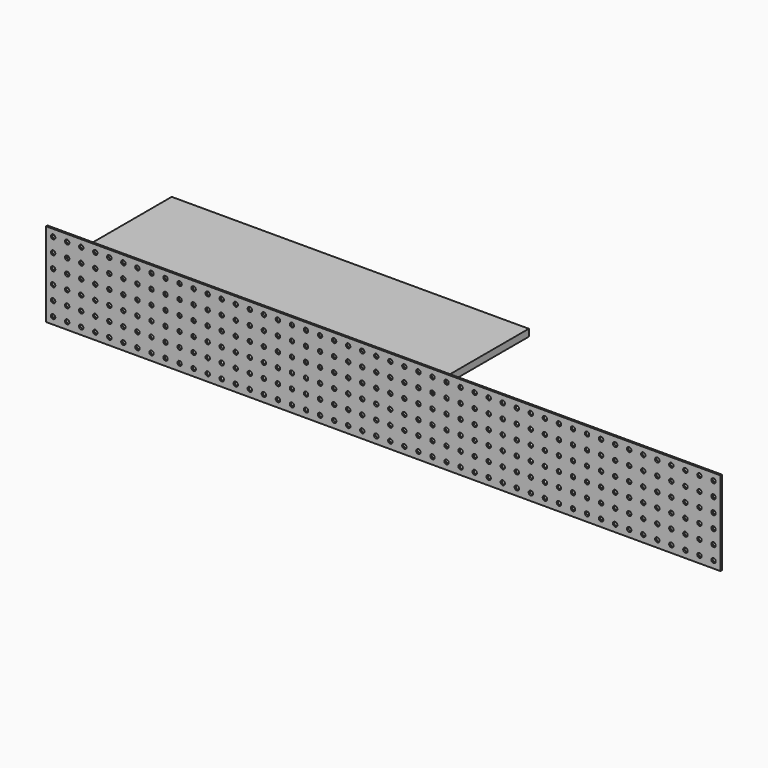
from build123d import *

# Parameters (mm, degrees)
F0_W     = 2438.4
F0_H     = 304.8
F0_R     = 8.001
F1_DEPTH = 3.175
F2_W     = 1290.985934
F2_H     = 527.761567
F3_DEPTH = 25.4


with BuildPart() as f1:
    # F0 (on Front) → F1 (new body, symmetric)
    with BuildSketch(Plane.XZ):
        Rectangle(F0_W, F0_H)
        with Locations((-1193.8, -127)):
            Circle(F0_R, mode=Mode.SUBTRACT)
        with Locations((-1143, -127)):
            Circle(F0_R, mode=Mode.SUBTRACT)
        with Locations((-1092.2, -127)):
            Circle(F0_R, mode=Mode.SUBTRACT)
        with Locations((-1041.4, -127)):
            Circle(F0_R, mode=Mode.SUBTRACT)
        with Locations((-990.6, -127)):
            Circle(F0_R, mode=Mode.SUBTRACT)
        with Locations((-939.8, -127)):
            Circle(F0_R, mode=Mode.SUBTRACT)
        with Locations((-889, -127)):
            Circle(F0_R, mode=Mode.SUBTRACT)
        with Locations((-838.2, -127)):
            Circle(F0_R, mode=Mode.SUBTRACT)
        with Locations((-787.4, -127)):
            Circle(F0_R, mode=Mode.SUBTRACT)
        with Locations((-736.6, -127)):
            Circle(F0_R, mode=Mode.SUBTRACT)
        with Locations((-685.8, -127)):
            Circle(F0_R, mode=Mode.SUBTRACT)
        with Locations((-635, -127)):
            Circle(F0_R, mode=Mode.SUBTRACT)
        with Locations((-584.2, -127)):
            Circle(F0_R, mode=Mode.SUBTRACT)
        with Locations((-533.4, -127)):
            Circle(F0_R, mode=Mode.SUBTRACT)
        with Locations((-482.6, -127)):
            Circle(F0_R, mode=Mode.SUBTRACT)
        with Locations((-431.8, -127)):
            Circle(F0_R, mode=Mode.SUBTRACT)
        with Locations((-381, -127)):
            Circle(F0_R, mode=Mode.SUBTRACT)
        with Locations((-330.2, -127)):
            Circle(F0_R, mode=Mode.SUBTRACT)
        with Locations((-279.4, -127)):
            Circle(F0_R, mode=Mode.SUBTRACT)
        with Locations((-228.6, -127)):
            Circle(F0_R, mode=Mode.SUBTRACT)
        with Locations((-177.8, -127)):
            Circle(F0_R, mode=Mode.SUBTRACT)
        with Locations((-127, -127)):
            Circle(F0_R, mode=Mode.SUBTRACT)
        with Locations((-76.2, -127)):
            Circle(F0_R, mode=Mode.SUBTRACT)
        with Locations((-25.4, -127)):
            Circle(F0_R, mode=Mode.SUBTRACT)
        with Locations((-1193.8, -76.2)):
            Circle(F0_R, mode=Mode.SUBTRACT)
        with Locations((-1143, -76.2)):
            Circle(F0_R, mode=Mode.SUBTRACT)
        with Locations((-1092.2, -76.2)):
            Circle(F0_R, mode=Mode.SUBTRACT)
        with Locations((-1041.4, -76.2)):
            Circle(F0_R, mode=Mode.SUBTRACT)
        with Locations((-990.6, -76.2)):
            Circle(F0_R, mode=Mode.SUBTRACT)
        with Locations((-939.8, -76.2)):
            Circle(F0_R, mode=Mode.SUBTRACT)
        with Locations((-889, -76.2)):
            Circle(F0_R, mode=Mode.SUBTRACT)
        with Locations((-838.2, -76.2)):
            Circle(F0_R, mode=Mode.SUBTRACT)
        with Locations((-787.4, -76.2)):
            Circle(F0_R, mode=Mode.SUBTRACT)
        with Locations((-736.6, -76.2)):
            Circle(F0_R, mode=Mode.SUBTRACT)
        with Locations((-685.8, -76.2)):
            Circle(F0_R, mode=Mode.SUBTRACT)
        with Locations((-635, -76.2)):
            Circle(F0_R, mode=Mode.SUBTRACT)
        with Locations((-1193.8, -25.4)):
            Circle(F0_R, mode=Mode.SUBTRACT)
        with Locations((-1143, -25.4)):
            Circle(F0_R, mode=Mode.SUBTRACT)
        with Locations((-1092.2, -25.4)):
            Circle(F0_R, mode=Mode.SUBTRACT)
        with Locations((-1041.4, -25.4)):
            Circle(F0_R, mode=Mode.SUBTRACT)
        with Locations((-990.6, -25.4)):
            Circle(F0_R, mode=Mode.SUBTRACT)
        with Locations((-939.8, -25.4)):
            Circle(F0_R, mode=Mode.SUBTRACT)
        with Locations((-889, -25.4)):
            Circle(F0_R, mode=Mode.SUBTRACT)
        with Locations((-838.2, -25.4)):
            Circle(F0_R, mode=Mode.SUBTRACT)
        with Locations((-787.4, -25.4)):
            Circle(F0_R, mode=Mode.SUBTRACT)
        with Locations((-736.6, -25.4)):
            Circle(F0_R, mode=Mode.SUBTRACT)
        with Locations((-685.8, -25.4)):
            Circle(F0_R, mode=Mode.SUBTRACT)
        with Locations((-635, -25.4)):
            Circle(F0_R, mode=Mode.SUBTRACT)
        with Locations((-584.2, -76.2)):
            Circle(F0_R, mode=Mode.SUBTRACT)
        with Locations((-533.4, -76.2)):
            Circle(F0_R, mode=Mode.SUBTRACT)
        with Locations((-482.6, -76.2)):
            Circle(F0_R, mode=Mode.SUBTRACT)
        with Locations((-431.8, -76.2)):
            Circle(F0_R, mode=Mode.SUBTRACT)
        with Locations((-381, -76.2)):
            Circle(F0_R, mode=Mode.SUBTRACT)
        with Locations((-330.2, -76.2)):
            Circle(F0_R, mode=Mode.SUBTRACT)
        with Locations((-279.4, -76.2)):
            Circle(F0_R, mode=Mode.SUBTRACT)
        with Locations((-228.6, -76.2)):
            Circle(F0_R, mode=Mode.SUBTRACT)
        with Locations((-177.8, -76.2)):
            Circle(F0_R, mode=Mode.SUBTRACT)
        with Locations((-127, -76.2)):
            Circle(F0_R, mode=Mode.SUBTRACT)
        with Locations((-76.2, -76.2)):
            Circle(F0_R, mode=Mode.SUBTRACT)
        with Locations((-25.4, -76.2)):
            Circle(F0_R, mode=Mode.SUBTRACT)
        with Locations((-584.2, -25.4)):
            Circle(F0_R, mode=Mode.SUBTRACT)
        with Locations((-533.4, -25.4)):
            Circle(F0_R, mode=Mode.SUBTRACT)
        with Locations((-482.6, -25.4)):
            Circle(F0_R, mode=Mode.SUBTRACT)
        with Locations((-431.8, -25.4)):
            Circle(F0_R, mode=Mode.SUBTRACT)
        with Locations((-381, -25.4)):
            Circle(F0_R, mode=Mode.SUBTRACT)
        with Locations((-330.2, -25.4)):
            Circle(F0_R, mode=Mode.SUBTRACT)
        with Locations((-279.4, -25.4)):
            Circle(F0_R, mode=Mode.SUBTRACT)
        with Locations((-228.6, -25.4)):
            Circle(F0_R, mode=Mode.SUBTRACT)
        with Locations((-177.8, -25.4)):
            Circle(F0_R, mode=Mode.SUBTRACT)
        with Locations((-127, -25.4)):
            Circle(F0_R, mode=Mode.SUBTRACT)
        with Locations((-76.2, -25.4)):
            Circle(F0_R, mode=Mode.SUBTRACT)
        with Locations((-25.4, -25.4)):
            Circle(F0_R, mode=Mode.SUBTRACT)
        with Locations((25.4, -127)):
            Circle(F0_R, mode=Mode.SUBTRACT)
        with Locations((76.2, -127)):
            Circle(F0_R, mode=Mode.SUBTRACT)
        with Locations((127, -127)):
            Circle(F0_R, mode=Mode.SUBTRACT)
        with Locations((177.8, -127)):
            Circle(F0_R, mode=Mode.SUBTRACT)
        with Locations((228.6, -127)):
            Circle(F0_R, mode=Mode.SUBTRACT)
        with Locations((279.4, -127)):
            Circle(F0_R, mode=Mode.SUBTRACT)
        with Locations((330.2, -127)):
            Circle(F0_R, mode=Mode.SUBTRACT)
        with Locations((381, -127)):
            Circle(F0_R, mode=Mode.SUBTRACT)
        with Locations((431.8, -127)):
            Circle(F0_R, mode=Mode.SUBTRACT)
        with Locations((482.6, -127)):
            Circle(F0_R, mode=Mode.SUBTRACT)
        with Locations((533.4, -127)):
            Circle(F0_R, mode=Mode.SUBTRACT)
        with Locations((584.2, -127)):
            Circle(F0_R, mode=Mode.SUBTRACT)
        with Locations((635, -127)):
            Circle(F0_R, mode=Mode.SUBTRACT)
        with Locations((685.8, -127)):
            Circle(F0_R, mode=Mode.SUBTRACT)
        with Locations((736.6, -127)):
            Circle(F0_R, mode=Mode.SUBTRACT)
        with Locations((787.4, -127)):
            Circle(F0_R, mode=Mode.SUBTRACT)
        with Locations((838.2, -127)):
            Circle(F0_R, mode=Mode.SUBTRACT)
        with Locations((889, -127)):
            Circle(F0_R, mode=Mode.SUBTRACT)
        with Locations((939.8, -127)):
            Circle(F0_R, mode=Mode.SUBTRACT)
        with Locations((990.6, -127)):
            Circle(F0_R, mode=Mode.SUBTRACT)
        with Locations((1041.4, -127)):
            Circle(F0_R, mode=Mode.SUBTRACT)
        with Locations((1092.2, -127)):
            Circle(F0_R, mode=Mode.SUBTRACT)
        with Locations((1143, -127)):
            Circle(F0_R, mode=Mode.SUBTRACT)
        with Locations((1193.8, -127)):
            Circle(F0_R, mode=Mode.SUBTRACT)
        with Locations((25.4, -76.2)):
            Circle(F0_R, mode=Mode.SUBTRACT)
        with Locations((76.2, -76.2)):
            Circle(F0_R, mode=Mode.SUBTRACT)
        with Locations((127, -76.2)):
            Circle(F0_R, mode=Mode.SUBTRACT)
        with Locations((177.8, -76.2)):
            Circle(F0_R, mode=Mode.SUBTRACT)
        with Locations((228.6, -76.2)):
            Circle(F0_R, mode=Mode.SUBTRACT)
        with Locations((279.4, -76.2)):
            Circle(F0_R, mode=Mode.SUBTRACT)
        with Locations((330.2, -76.2)):
            Circle(F0_R, mode=Mode.SUBTRACT)
        with Locations((381, -76.2)):
            Circle(F0_R, mode=Mode.SUBTRACT)
        with Locations((431.8, -76.2)):
            Circle(F0_R, mode=Mode.SUBTRACT)
        with Locations((482.6, -76.2)):
            Circle(F0_R, mode=Mode.SUBTRACT)
        with Locations((533.4, -76.2)):
            Circle(F0_R, mode=Mode.SUBTRACT)
        with Locations((584.2, -76.2)):
            Circle(F0_R, mode=Mode.SUBTRACT)
        with Locations((25.4, -25.4)):
            Circle(F0_R, mode=Mode.SUBTRACT)
        with Locations((76.2, -25.4)):
            Circle(F0_R, mode=Mode.SUBTRACT)
        with Locations((127, -25.4)):
            Circle(F0_R, mode=Mode.SUBTRACT)
        with Locations((177.8, -25.4)):
            Circle(F0_R, mode=Mode.SUBTRACT)
        with Locations((228.6, -25.4)):
            Circle(F0_R, mode=Mode.SUBTRACT)
        with Locations((279.4, -25.4)):
            Circle(F0_R, mode=Mode.SUBTRACT)
        with Locations((330.2, -25.4)):
            Circle(F0_R, mode=Mode.SUBTRACT)
        with Locations((381, -25.4)):
            Circle(F0_R, mode=Mode.SUBTRACT)
        with Locations((431.8, -25.4)):
            Circle(F0_R, mode=Mode.SUBTRACT)
        with Locations((482.6, -25.4)):
            Circle(F0_R, mode=Mode.SUBTRACT)
        with Locations((533.4, -25.4)):
            Circle(F0_R, mode=Mode.SUBTRACT)
        with Locations((584.2, -25.4)):
            Circle(F0_R, mode=Mode.SUBTRACT)
        with Locations((635, -76.2)):
            Circle(F0_R, mode=Mode.SUBTRACT)
        with Locations((685.8, -76.2)):
            Circle(F0_R, mode=Mode.SUBTRACT)
        with Locations((736.6, -76.2)):
            Circle(F0_R, mode=Mode.SUBTRACT)
        with Locations((787.4, -76.2)):
            Circle(F0_R, mode=Mode.SUBTRACT)
        with Locations((838.2, -76.2)):
            Circle(F0_R, mode=Mode.SUBTRACT)
        with Locations((889, -76.2)):
            Circle(F0_R, mode=Mode.SUBTRACT)
        with Locations((939.8, -76.2)):
            Circle(F0_R, mode=Mode.SUBTRACT)
        with Locations((990.6, -76.2)):
            Circle(F0_R, mode=Mode.SUBTRACT)
        with Locations((1041.4, -76.2)):
            Circle(F0_R, mode=Mode.SUBTRACT)
        with Locations((1092.2, -76.2)):
            Circle(F0_R, mode=Mode.SUBTRACT)
        with Locations((1143, -76.2)):
            Circle(F0_R, mode=Mode.SUBTRACT)
        with Locations((1193.8, -76.2)):
            Circle(F0_R, mode=Mode.SUBTRACT)
        with Locations((635, -25.4)):
            Circle(F0_R, mode=Mode.SUBTRACT)
        with Locations((685.8, -25.4)):
            Circle(F0_R, mode=Mode.SUBTRACT)
        with Locations((736.6, -25.4)):
            Circle(F0_R, mode=Mode.SUBTRACT)
        with Locations((787.4, -25.4)):
            Circle(F0_R, mode=Mode.SUBTRACT)
        with Locations((838.2, -25.4)):
            Circle(F0_R, mode=Mode.SUBTRACT)
        with Locations((889, -25.4)):
            Circle(F0_R, mode=Mode.SUBTRACT)
        with Locations((939.8, -25.4)):
            Circle(F0_R, mode=Mode.SUBTRACT)
        with Locations((990.6, -25.4)):
            Circle(F0_R, mode=Mode.SUBTRACT)
        with Locations((1041.4, -25.4)):
            Circle(F0_R, mode=Mode.SUBTRACT)
        with Locations((1092.2, -25.4)):
            Circle(F0_R, mode=Mode.SUBTRACT)
        with Locations((1143, -25.4)):
            Circle(F0_R, mode=Mode.SUBTRACT)
        with Locations((1193.8, -25.4)):
            Circle(F0_R, mode=Mode.SUBTRACT)
        with Locations((-1193.8, 25.4)):
            Circle(F0_R, mode=Mode.SUBTRACT)
        with Locations((-1143, 25.4)):
            Circle(F0_R, mode=Mode.SUBTRACT)
        with Locations((-1092.2, 25.4)):
            Circle(F0_R, mode=Mode.SUBTRACT)
        with Locations((-1041.4, 25.4)):
            Circle(F0_R, mode=Mode.SUBTRACT)
        with Locations((-990.6, 25.4)):
            Circle(F0_R, mode=Mode.SUBTRACT)
        with Locations((-939.8, 25.4)):
            Circle(F0_R, mode=Mode.SUBTRACT)
        with Locations((-889, 25.4)):
            Circle(F0_R, mode=Mode.SUBTRACT)
        with Locations((-838.2, 25.4)):
            Circle(F0_R, mode=Mode.SUBTRACT)
        with Locations((-787.4, 25.4)):
            Circle(F0_R, mode=Mode.SUBTRACT)
        with Locations((-736.6, 25.4)):
            Circle(F0_R, mode=Mode.SUBTRACT)
        with Locations((-685.8, 25.4)):
            Circle(F0_R, mode=Mode.SUBTRACT)
        with Locations((-635, 25.4)):
            Circle(F0_R, mode=Mode.SUBTRACT)
        with Locations((-584.2, 25.4)):
            Circle(F0_R, mode=Mode.SUBTRACT)
        with Locations((-533.4, 25.4)):
            Circle(F0_R, mode=Mode.SUBTRACT)
        with Locations((-482.6, 25.4)):
            Circle(F0_R, mode=Mode.SUBTRACT)
        with Locations((-431.8, 25.4)):
            Circle(F0_R, mode=Mode.SUBTRACT)
        with Locations((-381, 25.4)):
            Circle(F0_R, mode=Mode.SUBTRACT)
        with Locations((-330.2, 25.4)):
            Circle(F0_R, mode=Mode.SUBTRACT)
        with Locations((-279.4, 25.4)):
            Circle(F0_R, mode=Mode.SUBTRACT)
        with Locations((-228.6, 25.4)):
            Circle(F0_R, mode=Mode.SUBTRACT)
        with Locations((-177.8, 25.4)):
            Circle(F0_R, mode=Mode.SUBTRACT)
        with Locations((-127, 25.4)):
            Circle(F0_R, mode=Mode.SUBTRACT)
        with Locations((-76.2, 25.4)):
            Circle(F0_R, mode=Mode.SUBTRACT)
        with Locations((-25.4, 25.4)):
            Circle(F0_R, mode=Mode.SUBTRACT)
        with Locations((-1193.8, 76.2)):
            Circle(F0_R, mode=Mode.SUBTRACT)
        with Locations((-1143, 76.2)):
            Circle(F0_R, mode=Mode.SUBTRACT)
        with Locations((-1092.2, 76.2)):
            Circle(F0_R, mode=Mode.SUBTRACT)
        with Locations((-1041.4, 76.2)):
            Circle(F0_R, mode=Mode.SUBTRACT)
        with Locations((-990.6, 76.2)):
            Circle(F0_R, mode=Mode.SUBTRACT)
        with Locations((-939.8, 76.2)):
            Circle(F0_R, mode=Mode.SUBTRACT)
        with Locations((-889, 76.2)):
            Circle(F0_R, mode=Mode.SUBTRACT)
        with Locations((-838.2, 76.2)):
            Circle(F0_R, mode=Mode.SUBTRACT)
        with Locations((-787.4, 76.2)):
            Circle(F0_R, mode=Mode.SUBTRACT)
        with Locations((-736.6, 76.2)):
            Circle(F0_R, mode=Mode.SUBTRACT)
        with Locations((-685.8, 76.2)):
            Circle(F0_R, mode=Mode.SUBTRACT)
        with Locations((-635, 76.2)):
            Circle(F0_R, mode=Mode.SUBTRACT)
        with Locations((-1193.8, 127)):
            Circle(F0_R, mode=Mode.SUBTRACT)
        with Locations((-1143, 127)):
            Circle(F0_R, mode=Mode.SUBTRACT)
        with Locations((-1092.2, 127)):
            Circle(F0_R, mode=Mode.SUBTRACT)
        with Locations((-1041.4, 127)):
            Circle(F0_R, mode=Mode.SUBTRACT)
        with Locations((-990.6, 127)):
            Circle(F0_R, mode=Mode.SUBTRACT)
        with Locations((-939.8, 127)):
            Circle(F0_R, mode=Mode.SUBTRACT)
        with Locations((-889, 127)):
            Circle(F0_R, mode=Mode.SUBTRACT)
        with Locations((-838.2, 127)):
            Circle(F0_R, mode=Mode.SUBTRACT)
        with Locations((-787.4, 127)):
            Circle(F0_R, mode=Mode.SUBTRACT)
        with Locations((-736.6, 127)):
            Circle(F0_R, mode=Mode.SUBTRACT)
        with Locations((-685.8, 127)):
            Circle(F0_R, mode=Mode.SUBTRACT)
        with Locations((-635, 127)):
            Circle(F0_R, mode=Mode.SUBTRACT)
        with Locations((-584.2, 76.2)):
            Circle(F0_R, mode=Mode.SUBTRACT)
        with Locations((-533.4, 76.2)):
            Circle(F0_R, mode=Mode.SUBTRACT)
        with Locations((-482.6, 76.2)):
            Circle(F0_R, mode=Mode.SUBTRACT)
        with Locations((-431.8, 76.2)):
            Circle(F0_R, mode=Mode.SUBTRACT)
        with Locations((-381, 76.2)):
            Circle(F0_R, mode=Mode.SUBTRACT)
        with Locations((-330.2, 76.2)):
            Circle(F0_R, mode=Mode.SUBTRACT)
        with Locations((-279.4, 76.2)):
            Circle(F0_R, mode=Mode.SUBTRACT)
        with Locations((-228.6, 76.2)):
            Circle(F0_R, mode=Mode.SUBTRACT)
        with Locations((-177.8, 76.2)):
            Circle(F0_R, mode=Mode.SUBTRACT)
        with Locations((-127, 76.2)):
            Circle(F0_R, mode=Mode.SUBTRACT)
        with Locations((-76.2, 76.2)):
            Circle(F0_R, mode=Mode.SUBTRACT)
        with Locations((-25.4, 76.2)):
            Circle(F0_R, mode=Mode.SUBTRACT)
        with Locations((-584.2, 127)):
            Circle(F0_R, mode=Mode.SUBTRACT)
        with Locations((-533.4, 127)):
            Circle(F0_R, mode=Mode.SUBTRACT)
        with Locations((-482.6, 127)):
            Circle(F0_R, mode=Mode.SUBTRACT)
        with Locations((-431.8, 127)):
            Circle(F0_R, mode=Mode.SUBTRACT)
        with Locations((-381, 127)):
            Circle(F0_R, mode=Mode.SUBTRACT)
        with Locations((-330.2, 127)):
            Circle(F0_R, mode=Mode.SUBTRACT)
        with Locations((-279.4, 127)):
            Circle(F0_R, mode=Mode.SUBTRACT)
        with Locations((-228.6, 127)):
            Circle(F0_R, mode=Mode.SUBTRACT)
        with Locations((-177.8, 127)):
            Circle(F0_R, mode=Mode.SUBTRACT)
        with Locations((-127, 127)):
            Circle(F0_R, mode=Mode.SUBTRACT)
        with Locations((-76.2, 127)):
            Circle(F0_R, mode=Mode.SUBTRACT)
        with Locations((-25.4, 127)):
            Circle(F0_R, mode=Mode.SUBTRACT)
        with Locations((25.4, 25.4)):
            Circle(F0_R, mode=Mode.SUBTRACT)
        with Locations((76.2, 25.4)):
            Circle(F0_R, mode=Mode.SUBTRACT)
        with Locations((127, 25.4)):
            Circle(F0_R, mode=Mode.SUBTRACT)
        with Locations((177.8, 25.4)):
            Circle(F0_R, mode=Mode.SUBTRACT)
        with Locations((228.6, 25.4)):
            Circle(F0_R, mode=Mode.SUBTRACT)
        with Locations((279.4, 25.4)):
            Circle(F0_R, mode=Mode.SUBTRACT)
        with Locations((330.2, 25.4)):
            Circle(F0_R, mode=Mode.SUBTRACT)
        with Locations((381, 25.4)):
            Circle(F0_R, mode=Mode.SUBTRACT)
        with Locations((431.8, 25.4)):
            Circle(F0_R, mode=Mode.SUBTRACT)
        with Locations((482.6, 25.4)):
            Circle(F0_R, mode=Mode.SUBTRACT)
        with Locations((533.4, 25.4)):
            Circle(F0_R, mode=Mode.SUBTRACT)
        with Locations((584.2, 25.4)):
            Circle(F0_R, mode=Mode.SUBTRACT)
        with Locations((635, 25.4)):
            Circle(F0_R, mode=Mode.SUBTRACT)
        with Locations((685.8, 25.4)):
            Circle(F0_R, mode=Mode.SUBTRACT)
        with Locations((736.6, 25.4)):
            Circle(F0_R, mode=Mode.SUBTRACT)
        with Locations((787.4, 25.4)):
            Circle(F0_R, mode=Mode.SUBTRACT)
        with Locations((838.2, 25.4)):
            Circle(F0_R, mode=Mode.SUBTRACT)
        with Locations((889, 25.4)):
            Circle(F0_R, mode=Mode.SUBTRACT)
        with Locations((939.8, 25.4)):
            Circle(F0_R, mode=Mode.SUBTRACT)
        with Locations((990.6, 25.4)):
            Circle(F0_R, mode=Mode.SUBTRACT)
        with Locations((1041.4, 25.4)):
            Circle(F0_R, mode=Mode.SUBTRACT)
        with Locations((1092.2, 25.4)):
            Circle(F0_R, mode=Mode.SUBTRACT)
        with Locations((1143, 25.4)):
            Circle(F0_R, mode=Mode.SUBTRACT)
        with Locations((1193.8, 25.4)):
            Circle(F0_R, mode=Mode.SUBTRACT)
        with Locations((25.4, 76.2)):
            Circle(F0_R, mode=Mode.SUBTRACT)
        with Locations((76.2, 76.2)):
            Circle(F0_R, mode=Mode.SUBTRACT)
        with Locations((127, 76.2)):
            Circle(F0_R, mode=Mode.SUBTRACT)
        with Locations((177.8, 76.2)):
            Circle(F0_R, mode=Mode.SUBTRACT)
        with Locations((228.6, 76.2)):
            Circle(F0_R, mode=Mode.SUBTRACT)
        with Locations((279.4, 76.2)):
            Circle(F0_R, mode=Mode.SUBTRACT)
        with Locations((330.2, 76.2)):
            Circle(F0_R, mode=Mode.SUBTRACT)
        with Locations((381, 76.2)):
            Circle(F0_R, mode=Mode.SUBTRACT)
        with Locations((431.8, 76.2)):
            Circle(F0_R, mode=Mode.SUBTRACT)
        with Locations((482.6, 76.2)):
            Circle(F0_R, mode=Mode.SUBTRACT)
        with Locations((533.4, 76.2)):
            Circle(F0_R, mode=Mode.SUBTRACT)
        with Locations((584.2, 76.2)):
            Circle(F0_R, mode=Mode.SUBTRACT)
        with Locations((25.4, 127)):
            Circle(F0_R, mode=Mode.SUBTRACT)
        with Locations((76.2, 127)):
            Circle(F0_R, mode=Mode.SUBTRACT)
        with Locations((127, 127)):
            Circle(F0_R, mode=Mode.SUBTRACT)
        with Locations((177.8, 127)):
            Circle(F0_R, mode=Mode.SUBTRACT)
        with Locations((228.6, 127)):
            Circle(F0_R, mode=Mode.SUBTRACT)
        with Locations((279.4, 127)):
            Circle(F0_R, mode=Mode.SUBTRACT)
        with Locations((330.2, 127)):
            Circle(F0_R, mode=Mode.SUBTRACT)
        with Locations((381, 127)):
            Circle(F0_R, mode=Mode.SUBTRACT)
        with Locations((431.8, 127)):
            Circle(F0_R, mode=Mode.SUBTRACT)
        with Locations((482.6, 127)):
            Circle(F0_R, mode=Mode.SUBTRACT)
        with Locations((533.4, 127)):
            Circle(F0_R, mode=Mode.SUBTRACT)
        with Locations((584.2, 127)):
            Circle(F0_R, mode=Mode.SUBTRACT)
        with Locations((635, 76.2)):
            Circle(F0_R, mode=Mode.SUBTRACT)
        with Locations((685.8, 76.2)):
            Circle(F0_R, mode=Mode.SUBTRACT)
        with Locations((736.6, 76.2)):
            Circle(F0_R, mode=Mode.SUBTRACT)
        with Locations((787.4, 76.2)):
            Circle(F0_R, mode=Mode.SUBTRACT)
        with Locations((838.2, 76.2)):
            Circle(F0_R, mode=Mode.SUBTRACT)
        with Locations((889, 76.2)):
            Circle(F0_R, mode=Mode.SUBTRACT)
        with Locations((939.8, 76.2)):
            Circle(F0_R, mode=Mode.SUBTRACT)
        with Locations((990.6, 76.2)):
            Circle(F0_R, mode=Mode.SUBTRACT)
        with Locations((1041.4, 76.2)):
            Circle(F0_R, mode=Mode.SUBTRACT)
        with Locations((1092.2, 76.2)):
            Circle(F0_R, mode=Mode.SUBTRACT)
        with Locations((1143, 76.2)):
            Circle(F0_R, mode=Mode.SUBTRACT)
        with Locations((1193.8, 76.2)):
            Circle(F0_R, mode=Mode.SUBTRACT)
        with Locations((635, 127)):
            Circle(F0_R, mode=Mode.SUBTRACT)
        with Locations((685.8, 127)):
            Circle(F0_R, mode=Mode.SUBTRACT)
        with Locations((736.6, 127)):
            Circle(F0_R, mode=Mode.SUBTRACT)
        with Locations((787.4, 127)):
            Circle(F0_R, mode=Mode.SUBTRACT)
        with Locations((838.2, 127)):
            Circle(F0_R, mode=Mode.SUBTRACT)
        with Locations((889, 127)):
            Circle(F0_R, mode=Mode.SUBTRACT)
        with Locations((939.8, 127)):
            Circle(F0_R, mode=Mode.SUBTRACT)
        with Locations((990.6, 127)):
            Circle(F0_R, mode=Mode.SUBTRACT)
        with Locations((1041.4, 127)):
            Circle(F0_R, mode=Mode.SUBTRACT)
        with Locations((1092.2, 127)):
            Circle(F0_R, mode=Mode.SUBTRACT)
        with Locations((1143, 127)):
            Circle(F0_R, mode=Mode.SUBTRACT)
        with Locations((1193.8, 127)):
            Circle(F0_R, mode=Mode.SUBTRACT)
    extrude(amount=F1_DEPTH, both=True)


with BuildPart() as f3:
    # F2 (on Top) → F3 (new body)
    with BuildSketch(Plane.XY):
        with Locations((-561.592404, 285.532539)):
            Rectangle(F2_W, F2_H)
    extrude(amount=F3_DEPTH)


solid = Compound([f1.part, f3.part])
